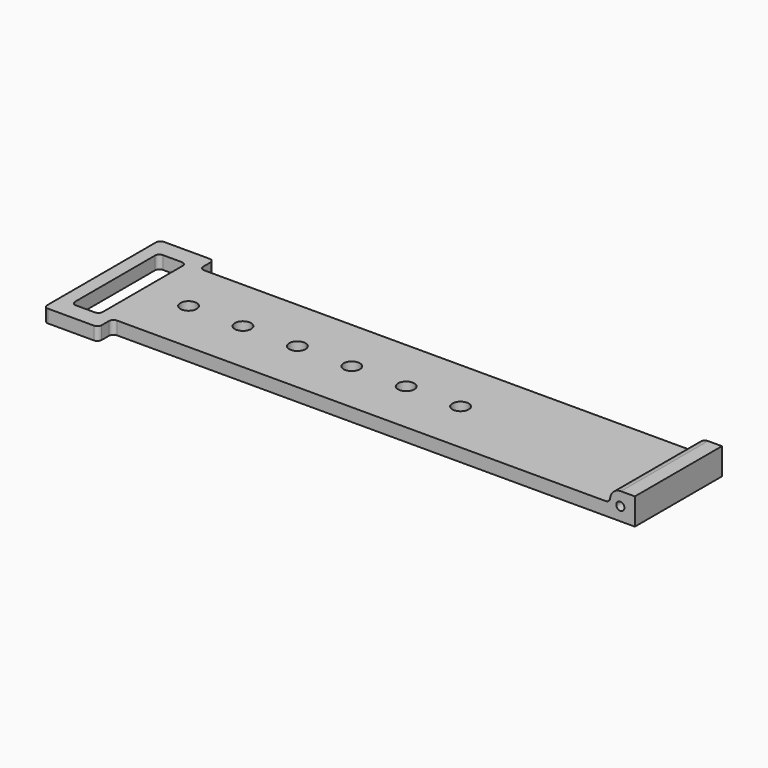
from build123d import *

# Parameters (mm, degrees)
F0_W      = 96
F0_H      = 20
F1_DEPTH  = 2.4
F4_DEPTH  = 20
F5_R      = 0.75
F6_DEPTH  = 20.001
F7_R      = 1.5
F8_DEPTH  = 2.401
F10_DEPTH = 2.4
F11_DEPTH = 2.401


with BuildPart() as f1:
    # F0 (on Top) → F1 (new body)
    with BuildSketch(Plane.XY):
        with Locations((-48, 10)):
            Rectangle(F0_W, F0_H)
    extrude(amount=F1_DEPTH)

    # F3 (on face) → F4 (join)
    with BuildSketch(Plane.XZ):
        with BuildLine():
            Line((-4.53507, 2.4), (0, 2.4))
            Line((0, 2.4), (0, 4.9))
            Line((0, 4.9), (-2.557698, 4.9))
            ThreePointArc((-2.557698, 4.9), (-3.861539, 4.416575), (-4.53507, 3.2))
            ThreePointArc((-4.53507, 3.2), (-4.769385, 2.634315), (-5.33507, 2.4))
            Line((-5.33507, 2.4), (-4.53507, 2.4))
        make_face()
    extrude(amount=-F4_DEPTH)

    # F5 (on face) → F6 (cut, through all)
    with BuildSketch(Plane.XZ):
        with Locations((-2.673816, 2.433896)):
            Circle(F5_R)
    extrude(amount=-F6_DEPTH, mode=Mode.SUBTRACT)

    # F7 (on face) → F8 (cut, through all)
    with BuildSketch(Plane.XY.offset(2.4)):
        with BuildLine():
            ThreePointArc((-91.5, 9.954306), (-90, 8.454306), (-88.5, 9.954306))
            ThreePointArc((-88.5, 9.954306), (-90, 11.454306), (-91.5, 9.954306))
        make_face()
        with Locations((-80, 9.954306)):
            Circle(F7_R)
        with Locations((-70, 9.954306)):
            Circle(F7_R)
        with Locations((-60, 9.954306)):
            Circle(F7_R)
        with Locations((-50, 9.954306)):
            Circle(F7_R)
        with Locations((-40, 9.954306)):
            Circle(F7_R)
    extrude(amount=-F8_DEPTH, mode=Mode.SUBTRACT)

    # F9 (on face) → F10 (join)
    with BuildSketch(Plane.XY.offset(2.4)):
        with BuildLine():
            Line((-95.2, 0), (-6, 0))
            Line((-6, 0), (-6, 20))
            Line((-6, 20), (-95.2, 20))
            ThreePointArc((-95.2, 20), (-95.765685, 20.234315), (-96, 20.8))
            Line((-96, 20.8), (-96, 22.5))
            ThreePointArc((-96, 22.5), (-96.234315, 23.065685), (-96.8, 23.3))
            Line((-96.8, 23.3), (-105.2, 23.3))
            ThreePointArc((-105.2, 23.3), (-105.765685, 23.065685), (-106, 22.5))
            Line((-106, 22.5), (-106, -2.5))
            ThreePointArc((-106, -2.5), (-105.765685, -3.065685), (-105.2, -3.3))
            Line((-105.2, -3.3), (-103.3, -3.3))
            Line((-103.3, -3.3), (-98.7, -3.3))
            Line((-98.7, -3.3), (-96.8, -3.3))
            ThreePointArc((-96.8, -3.3), (-96.234315, -3.065685), (-96, -2.5))
            Line((-96, -2.5), (-96, -0.8))
            ThreePointArc((-96, -0.8), (-95.765685, -0.234315), (-95.2, 0))
        make_face()
        with BuildLine():
            ThreePointArc((-103.550001, 19.2), (-103.315687, 19.765685), (-102.750001, 20))
            Line((-102.750001, 20), (-99.249999, 20))
            ThreePointArc((-99.249999, 20), (-98.684314, 19.765686), (-98.449999, 19.2))
            Line((-98.449999, 19.2), (-98.449999, 0.8))
            ThreePointArc((-98.449999, 0.8), (-98.684314, 0.234315), (-99.249999, 0))
            Line((-99.249999, 0), (-102.749999, 0))
            ThreePointArc((-102.749999, 0), (-103.315684, 0.234315), (-103.549999, 0.8))
            Line((-103.549999, 0.8), (-103.550001, 19.2))
        make_face(mode=Mode.SUBTRACT)
    extrude(amount=-F10_DEPTH)

    # F7 (on face) → F11 (cut, through all)
    with BuildSketch(Plane.XY.offset(2.4)):
        with BuildLine():
            ThreePointArc((-91.5, 9.954306), (-90, 8.454306), (-88.5, 9.954306))
            ThreePointArc((-88.5, 9.954306), (-90, 11.454306), (-91.5, 9.954306))
        make_face()
        with Locations((-80, 9.954306)):
            Circle(F7_R)
        with Locations((-70, 9.954306)):
            Circle(F7_R)
        with Locations((-60, 9.954306)):
            Circle(F7_R)
        with Locations((-50, 9.954306)):
            Circle(F7_R)
        with Locations((-40, 9.954306)):
            Circle(F7_R)
    extrude(amount=-F11_DEPTH, mode=Mode.SUBTRACT)


solid = f1.part
